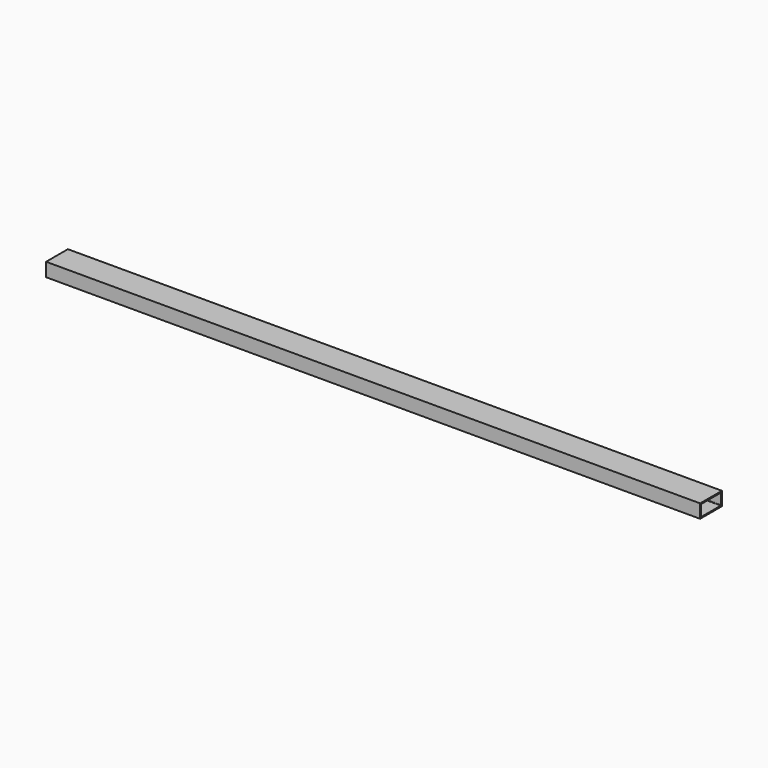
from build123d import *

# Parameters (mm, degrees)
F0_W     = 76.2
F0_H     = 38.1
F1_DEPTH = 914.4


with BuildPart() as f1:
    # F0 (on Right) → F1 (new body, symmetric)
    with BuildSketch(Plane.YZ):
        Rectangle(F0_W, F0_H)
        with BuildLine():
            ThreePointArc((-34.925, 14.351), (-34.478631, 15.428631), (-33.401, 15.875))
            Line((-33.401, 15.875), (33.401, 15.875))
            ThreePointArc((33.401, 15.875), (34.478631, 15.428631), (34.925, 14.351))
            Line((34.925, 14.351), (34.925, -14.351))
            ThreePointArc((34.925, -14.351), (34.478631, -15.428631), (33.401, -15.875))
            Line((33.401, -15.875), (-33.401, -15.875))
            ThreePointArc((-33.401, -15.875), (-34.478631, -15.428631), (-34.925, -14.351))
            Line((-34.925, -14.351), (-34.925, 14.351))
        make_face(mode=Mode.SUBTRACT)
    extrude(amount=F1_DEPTH, both=True)


solid = f1.part
